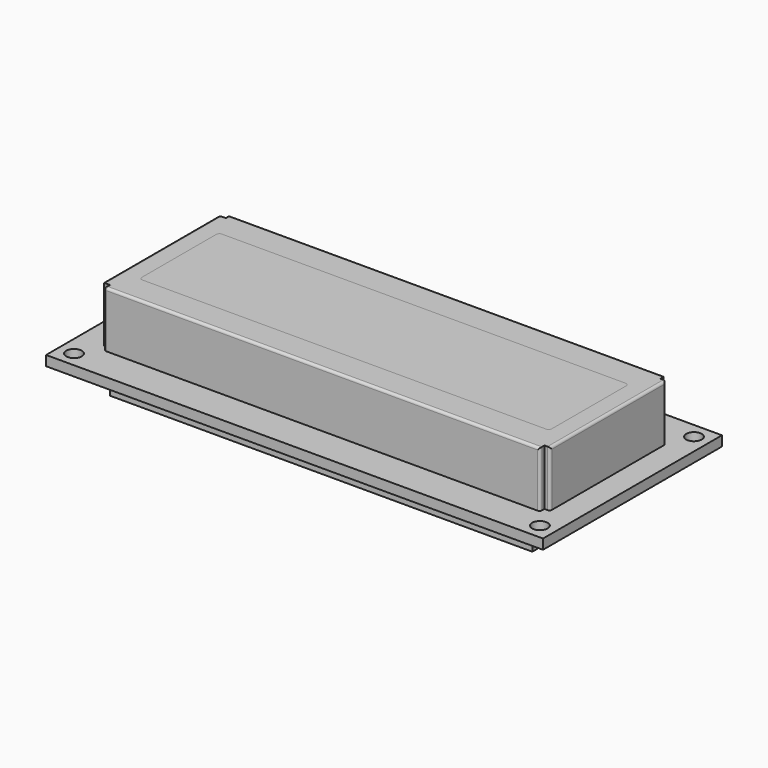
from build123d import *

# Parameters (mm, degrees)
SKETCH_W          = 80
SKETCH_H          = 36
SKETCH_R          = 1.25
SKETCH_R_2        = 0.5
PAD_DEPTH         = 1.6
BOX_W             = 68
BOX_H             = 1
BOX_DEPTH         = 4.4
BOX001_W          = 68
BOX001_H          = 1
BOX001_DEPTH      = 4.4
BOX008_W          = 66
BOX008_H          = 16
BOX008_DEPTH      = 2
FILLET004_R       = 0.5
FILLET005_R       = 0.5
FILLET006_R       = 0.5
FILLET007_R       = 0.5
CYLINDER002_R     = 0.5
CYLINDER002_DEPTH = 0.1
BOX009_W          = 2
BOX009_H          = 2.5
BOX009_DEPTH      = 0.1
CYLINDER001_R     = 0.5
CYLINDER001_DEPTH = 0.1
CYLINDER_R        = 1
CYLINDER_DEPTH    = 0.1
CYLINDER005_R     = 0.5
CYLINDER005_DEPTH = 0.1
BOX010_W          = 2
BOX010_H          = 2.5
BOX010_DEPTH      = 0.1
CYLINDER004_R     = 0.5
CYLINDER004_DEPTH = 0.1
CYLINDER003_R     = 1
CYLINDER003_DEPTH = 0.1
CYLINDER008_R     = 0.5
CYLINDER008_DEPTH = 0.1
BOX011_W          = 2
BOX011_H          = 2.5
BOX011_DEPTH      = 0.1
CYLINDER007_R     = 0.5
CYLINDER007_DEPTH = 0.1
CYLINDER006_R     = 1
CYLINDER006_DEPTH = 0.1
CYLINDER011_R     = 0.5
CYLINDER011_DEPTH = 0.1
BOX012_W          = 2
BOX012_H          = 2.5
BOX012_DEPTH      = 0.1
CYLINDER010_R     = 0.5
CYLINDER010_DEPTH = 0.1
CYLINDER009_R     = 1
CYLINDER009_DEPTH = 0.1
CYLINDER014_R     = 0.5
CYLINDER014_DEPTH = 0.1
BOX013_W          = 2
BOX013_H          = 2.5
BOX013_DEPTH      = 0.1
CYLINDER013_R     = 0.5
CYLINDER013_DEPTH = 0.1
CYLINDER012_R     = 1
CYLINDER012_DEPTH = 0.1
CYLINDER017_R     = 0.5
CYLINDER017_DEPTH = 0.1
BOX014_W          = 2
BOX014_H          = 2.5
BOX014_DEPTH      = 0.1
CYLINDER016_R     = 0.5
CYLINDER016_DEPTH = 0.1
CYLINDER015_R     = 1
CYLINDER015_DEPTH = 0.1
CYLINDER020_R     = 0.5
CYLINDER020_DEPTH = 0.1
BOX015_W          = 2
BOX015_H          = 2.5
BOX015_DEPTH      = 0.1
CYLINDER019_R     = 0.5
CYLINDER019_DEPTH = 0.1
CYLINDER018_R     = 1
CYLINDER018_DEPTH = 0.1
CYLINDER023_R     = 0.5
CYLINDER023_DEPTH = 0.1
BOX016_W          = 2
BOX016_H          = 2.5
BOX016_DEPTH      = 0.1
CYLINDER022_R     = 0.5
CYLINDER022_DEPTH = 0.1
CYLINDER021_R     = 1
CYLINDER021_DEPTH = 0.1
CYLINDER026_R     = 0.5
CYLINDER026_DEPTH = 0.1
BOX017_W          = 2
BOX017_H          = 2.5
BOX017_DEPTH      = 0.1
CYLINDER025_R     = 0.5
CYLINDER025_DEPTH = 0.1
CYLINDER024_R     = 1
CYLINDER024_DEPTH = 0.1
CYLINDER029_R     = 0.5
CYLINDER029_DEPTH = 0.1
BOX018_W          = 2
BOX018_H          = 2.5
BOX018_DEPTH      = 0.1
CYLINDER028_R     = 0.5
CYLINDER028_DEPTH = 0.1
CYLINDER027_R     = 1
CYLINDER027_DEPTH = 0.1
CYLINDER032_R     = 0.5
CYLINDER032_DEPTH = 0.1
BOX019_W          = 2
BOX019_H          = 2.5
BOX019_DEPTH      = 0.1
CYLINDER031_R     = 0.5
CYLINDER031_DEPTH = 0.1
CYLINDER030_R     = 1
CYLINDER030_DEPTH = 0.1
CYLINDER035_R     = 0.5
CYLINDER035_DEPTH = 0.1
BOX020_W          = 2
BOX020_H          = 2.5
BOX020_DEPTH      = 0.1
CYLINDER034_R     = 0.5
CYLINDER034_DEPTH = 0.1
CYLINDER033_R     = 1
CYLINDER033_DEPTH = 0.1
CYLINDER038_R     = 0.5
CYLINDER038_DEPTH = 0.1
BOX021_W          = 2
BOX021_H          = 2.5
BOX021_DEPTH      = 0.1
CYLINDER037_R     = 0.5
CYLINDER037_DEPTH = 0.1
CYLINDER036_R     = 1
CYLINDER036_DEPTH = 0.1
CYLINDER041_R     = 0.5
CYLINDER041_DEPTH = 0.1
BOX022_W          = 2
BOX022_H          = 2.5
BOX022_DEPTH      = 0.1
CYLINDER040_R     = 0.5
CYLINDER040_DEPTH = 0.1
CYLINDER039_R     = 1
CYLINDER039_DEPTH = 0.1
CYLINDER044_R     = 0.5
CYLINDER044_DEPTH = 0.1
BOX023_W          = 2
BOX023_H          = 2.5
BOX023_DEPTH      = 0.1
CYLINDER043_R     = 0.5
CYLINDER043_DEPTH = 0.1
CYLINDER042_R     = 1
CYLINDER042_DEPTH = 0.1
CYLINDER047_R     = 0.5
CYLINDER047_DEPTH = 0.1
BOX024_W          = 2
BOX024_H          = 2.5
BOX024_DEPTH      = 0.1
CYLINDER046_R     = 0.5
CYLINDER046_DEPTH = 0.1
CYLINDER045_R     = 1
CYLINDER045_DEPTH = 0.1
BOX007_W          = 66
BOX007_H          = 16
BOX007_DEPTH      = 2
FILLET_R          = 0.5
FILLET001_R       = 0.5
FILLET002_R       = 0.5
FILLET003_R       = 0.5
BOX006_W          = 1
BOX006_H          = 1
BOX006_DEPTH      = 9
BOX005_W          = 1
BOX005_H          = 1
BOX005_DEPTH      = 9
BOX004_W          = 1
BOX004_H          = 1
BOX004_DEPTH      = 9
BOX003_W          = 1
BOX003_H          = 1
BOX003_DEPTH      = 9
BOX002_W          = 72
BOX002_H          = 25.13
BOX002_DEPTH      = 9
FILLET008_R       = 0.4
FILLET009_R       = 0.4


with BuildPart() as body:
    # Sketch → Pad (new body)
    with BuildSketch(Plane.XY):
        with Locations((32, -15.5)):
            Rectangle(SKETCH_W, SKETCH_H)
        with Locations((-5.5, 0)):
            Circle(SKETCH_R, mode=Mode.SUBTRACT)
        with Locations((-5.5, -31)):
            Circle(SKETCH_R, mode=Mode.SUBTRACT)
        with Locations((69.5, -31)):
            Circle(SKETCH_R, mode=Mode.SUBTRACT)
        with Locations((69.5, 0)):
            Circle(SKETCH_R, mode=Mode.SUBTRACT)
        with Locations((2.54, 0)):
            Circle(SKETCH_R_2, mode=Mode.SUBTRACT)
        Circle(SKETCH_R_2, mode=Mode.SUBTRACT)
        with Locations((10.16, 0)):
            Circle(SKETCH_R_2, mode=Mode.SUBTRACT)
        with Locations((15.24, 0)):
            Circle(SKETCH_R_2, mode=Mode.SUBTRACT)
        with Locations((25.4, 0)):
            Circle(SKETCH_R_2, mode=Mode.SUBTRACT)
        with Locations((22.86, 0)):
            Circle(SKETCH_R_2, mode=Mode.SUBTRACT)
        with Locations((38.1, 0)):
            Circle(SKETCH_R_2, mode=Mode.SUBTRACT)
        with Locations((27.94, 0)):
            Circle(SKETCH_R_2, mode=Mode.SUBTRACT)
        with Locations((20.32, 0)):
            Circle(SKETCH_R_2, mode=Mode.SUBTRACT)
        with Locations((35.56, 0)):
            Circle(SKETCH_R_2, mode=Mode.SUBTRACT)
        with Locations((12.7, 0)):
            Circle(SKETCH_R_2, mode=Mode.SUBTRACT)
        with Locations((7.62, 0)):
            Circle(SKETCH_R_2, mode=Mode.SUBTRACT)
        with Locations((5.08, 0)):
            Circle(SKETCH_R_2, mode=Mode.SUBTRACT)
        with Locations((17.78, 0)):
            Circle(SKETCH_R_2, mode=Mode.SUBTRACT)
        with Locations((30.48, 0)):
            Circle(SKETCH_R_2, mode=Mode.SUBTRACT)
        with Locations((33.02, 0)):
            Circle(SKETCH_R_2, mode=Mode.SUBTRACT)
    extrude(amount=PAD_DEPTH)


with BuildPart() as body_1:
    # Body placement: moved
    add(body.part.moved(Location((0, 0, 4.4))))


with BuildPart() as glide001:
    # Box → Box (new body)
    with BuildSketch(Plane(origin=(-2.85, -4, 0), x_dir=(1, 0, 0), z_dir=(0, 0, 1))):
        with Locations((34, 0.5)):
            Rectangle(BOX_W, BOX_H)
    extrude(amount=BOX_DEPTH)


with BuildPart() as glide002:
    # Box001 → Box001 (new body)
    with BuildSketch(Plane(origin=(-2, -28.15, 0), x_dir=(1, 0, 0), z_dir=(0, 0, 1))):
        with Locations((34, 0.5)):
            Rectangle(BOX001_W, BOX001_H)
    extrude(amount=BOX001_DEPTH)


with BuildPart() as active_lcd_area:
    # Box008 → Box008 (new body)
    with BuildSketch(Plane(origin=(-1, -23.5, 20), x_dir=(1, 0, 0), z_dir=(0, 0, 1))):
        with Locations((33, 8)):
            Rectangle(BOX008_W, BOX008_H)
    extrude(amount=BOX008_DEPTH)

    # Fillet004
    fillet004_edges = [active_lcd_area.edges().sort_by_distance(p)[0] for p in [
        (65, -23.5, 21),
    ]]
    fillet(fillet004_edges, radius=FILLET004_R)

    # Fillet005
    fillet005_edges = [active_lcd_area.edges().sort_by_distance(p)[0] for p in [
        (65, -7.5, 21),
    ]]
    fillet(fillet005_edges, radius=FILLET005_R)

    # Fillet006
    fillet006_edges = [active_lcd_area.edges().sort_by_distance(p)[0] for p in [
        (-1, -23.5, 21),
    ]]
    fillet(fillet006_edges, radius=FILLET006_R)

    # Fillet007
    fillet007_edges = [active_lcd_area.edges().sort_by_distance(p)[0] for p in [
        (-1, -7.5, 21),
    ]]
    fillet(fillet007_edges, radius=FILLET007_R)


with BuildPart() as active_lcd_area_1:
    # Fillet007 placement: moved
    add(active_lcd_area.part.moved(Location((0, 0, -7))))


with BuildPart() as cylinder002:
    # Cylinder002 → Cylinder002 (new body)
    with BuildSketch(Plane.XY.offset(6)):
        Circle(CYLINDER002_R)
    extrude(amount=CYLINDER002_DEPTH)


with BuildPart() as cut006:
    # Box009 → Box009 (new body)
    with BuildSketch(Plane(origin=(-1, 0, 6), x_dir=(1, 0, 0), z_dir=(0, 0, 1))):
        with Locations((1, 1.25)):
            Rectangle(BOX009_W, BOX009_H)
    extrude(amount=BOX009_DEPTH)

    # Cut006: cut Cylinder002
    add(cylinder002.part, mode=Mode.SUBTRACT)


with BuildPart() as cylinder001:
    # Cylinder001 → Cylinder001 (new body)
    with BuildSketch(Plane.XY.offset(6)):
        Circle(CYLINDER001_R)
    extrude(amount=CYLINDER001_DEPTH)


with BuildPart() as fusion:
    # Cylinder → Cylinder (new body)
    with BuildSketch(Plane.XY.offset(6)):
        Circle(CYLINDER_R)
    extrude(amount=CYLINDER_DEPTH)

    # Cut005: cut Cylinder001
    add(cylinder001.part, mode=Mode.SUBTRACT)

    # Fusion: union Cut006
    add(cut006.part)


with BuildPart() as cylinder005:
    # Cylinder005 → Cylinder005 (new body)
    with BuildSketch(Plane.XY.offset(6)):
        Circle(CYLINDER005_R)
    extrude(amount=CYLINDER005_DEPTH)


with BuildPart() as cut008:
    # Box010 → Box010 (new body)
    with BuildSketch(Plane(origin=(-1, 0, 6), x_dir=(1, 0, 0), z_dir=(0, 0, 1))):
        with Locations((1, 1.25)):
            Rectangle(BOX010_W, BOX010_H)
    extrude(amount=BOX010_DEPTH)

    # Cut008: cut Cylinder005
    add(cylinder005.part, mode=Mode.SUBTRACT)


with BuildPart() as cylinder004:
    # Cylinder004 → Cylinder004 (new body)
    with BuildSketch(Plane.XY.offset(6)):
        Circle(CYLINDER004_R)
    extrude(amount=CYLINDER004_DEPTH)


with BuildPart() as fusion001:
    # Cylinder003 → Cylinder003 (new body)
    with BuildSketch(Plane.XY.offset(6)):
        Circle(CYLINDER003_R)
    extrude(amount=CYLINDER003_DEPTH)

    # Cut007: cut Cylinder004
    add(cylinder004.part, mode=Mode.SUBTRACT)

    # Fusion001: union Cut008
    add(cut008.part)


with BuildPart() as fusion001_1:
    # Fusion001 placement: moved
    add(fusion001.part.moved(Location((2.54, 0, 0))))


with BuildPart() as cylinder008:
    # Cylinder008 → Cylinder008 (new body)
    with BuildSketch(Plane.XY.offset(6)):
        Circle(CYLINDER008_R)
    extrude(amount=CYLINDER008_DEPTH)


with BuildPart() as cut010:
    # Box011 → Box011 (new body)
    with BuildSketch(Plane(origin=(-1, 0, 6), x_dir=(1, 0, 0), z_dir=(0, 0, 1))):
        with Locations((1, 1.25)):
            Rectangle(BOX011_W, BOX011_H)
    extrude(amount=BOX011_DEPTH)

    # Cut010: cut Cylinder008
    add(cylinder008.part, mode=Mode.SUBTRACT)


with BuildPart() as cylinder007:
    # Cylinder007 → Cylinder007 (new body)
    with BuildSketch(Plane.XY.offset(6)):
        Circle(CYLINDER007_R)
    extrude(amount=CYLINDER007_DEPTH)


with BuildPart() as fusion002:
    # Cylinder006 → Cylinder006 (new body)
    with BuildSketch(Plane.XY.offset(6)):
        Circle(CYLINDER006_R)
    extrude(amount=CYLINDER006_DEPTH)

    # Cut009: cut Cylinder007
    add(cylinder007.part, mode=Mode.SUBTRACT)

    # Fusion002: union Cut010
    add(cut010.part)


with BuildPart() as fusion002_1:
    # Fusion002 placement: moved
    add(fusion002.part.moved(Location((5.08, 0, 0))))


with BuildPart() as cylinder011:
    # Cylinder011 → Cylinder011 (new body)
    with BuildSketch(Plane.XY.offset(6)):
        Circle(CYLINDER011_R)
    extrude(amount=CYLINDER011_DEPTH)


with BuildPart() as cut012:
    # Box012 → Box012 (new body)
    with BuildSketch(Plane(origin=(-1, 0, 6), x_dir=(1, 0, 0), z_dir=(0, 0, 1))):
        with Locations((1, 1.25)):
            Rectangle(BOX012_W, BOX012_H)
    extrude(amount=BOX012_DEPTH)

    # Cut012: cut Cylinder011
    add(cylinder011.part, mode=Mode.SUBTRACT)


with BuildPart() as cylinder010:
    # Cylinder010 → Cylinder010 (new body)
    with BuildSketch(Plane.XY.offset(6)):
        Circle(CYLINDER010_R)
    extrude(amount=CYLINDER010_DEPTH)


with BuildPart() as fusion003:
    # Cylinder009 → Cylinder009 (new body)
    with BuildSketch(Plane.XY.offset(6)):
        Circle(CYLINDER009_R)
    extrude(amount=CYLINDER009_DEPTH)

    # Cut011: cut Cylinder010
    add(cylinder010.part, mode=Mode.SUBTRACT)

    # Fusion003: union Cut012
    add(cut012.part)


with BuildPart() as fusion003_1:
    # Fusion003 placement: moved
    add(fusion003.part.moved(Location((7.62, 0, 0))))


with BuildPart() as cylinder014:
    # Cylinder014 → Cylinder014 (new body)
    with BuildSketch(Plane.XY.offset(6)):
        Circle(CYLINDER014_R)
    extrude(amount=CYLINDER014_DEPTH)


with BuildPart() as cut014:
    # Box013 → Box013 (new body)
    with BuildSketch(Plane(origin=(-1, 0, 6), x_dir=(1, 0, 0), z_dir=(0, 0, 1))):
        with Locations((1, 1.25)):
            Rectangle(BOX013_W, BOX013_H)
    extrude(amount=BOX013_DEPTH)

    # Cut014: cut Cylinder014
    add(cylinder014.part, mode=Mode.SUBTRACT)


with BuildPart() as cylinder013:
    # Cylinder013 → Cylinder013 (new body)
    with BuildSketch(Plane.XY.offset(6)):
        Circle(CYLINDER013_R)
    extrude(amount=CYLINDER013_DEPTH)


with BuildPart() as fusion004:
    # Cylinder012 → Cylinder012 (new body)
    with BuildSketch(Plane.XY.offset(6)):
        Circle(CYLINDER012_R)
    extrude(amount=CYLINDER012_DEPTH)

    # Cut013: cut Cylinder013
    add(cylinder013.part, mode=Mode.SUBTRACT)

    # Fusion004: union Cut014
    add(cut014.part)


with BuildPart() as fusion004_1:
    # Fusion004 placement: moved
    add(fusion004.part.moved(Location((10.16, 0, 0))))


with BuildPart() as cylinder017:
    # Cylinder017 → Cylinder017 (new body)
    with BuildSketch(Plane.XY.offset(6)):
        Circle(CYLINDER017_R)
    extrude(amount=CYLINDER017_DEPTH)


with BuildPart() as cut016:
    # Box014 → Box014 (new body)
    with BuildSketch(Plane(origin=(-1, 0, 6), x_dir=(1, 0, 0), z_dir=(0, 0, 1))):
        with Locations((1, 1.25)):
            Rectangle(BOX014_W, BOX014_H)
    extrude(amount=BOX014_DEPTH)

    # Cut016: cut Cylinder017
    add(cylinder017.part, mode=Mode.SUBTRACT)


with BuildPart() as cylinder016:
    # Cylinder016 → Cylinder016 (new body)
    with BuildSketch(Plane.XY.offset(6)):
        Circle(CYLINDER016_R)
    extrude(amount=CYLINDER016_DEPTH)


with BuildPart() as fusion005:
    # Cylinder015 → Cylinder015 (new body)
    with BuildSketch(Plane.XY.offset(6)):
        Circle(CYLINDER015_R)
    extrude(amount=CYLINDER015_DEPTH)

    # Cut015: cut Cylinder016
    add(cylinder016.part, mode=Mode.SUBTRACT)

    # Fusion005: union Cut016
    add(cut016.part)


with BuildPart() as fusion005_1:
    # Fusion005 placement: moved
    add(fusion005.part.moved(Location((12.7, 0, 0))))


with BuildPart() as cylinder020:
    # Cylinder020 → Cylinder020 (new body)
    with BuildSketch(Plane.XY.offset(6)):
        Circle(CYLINDER020_R)
    extrude(amount=CYLINDER020_DEPTH)


with BuildPart() as cut018:
    # Box015 → Box015 (new body)
    with BuildSketch(Plane(origin=(-1, 0, 6), x_dir=(1, 0, 0), z_dir=(0, 0, 1))):
        with Locations((1, 1.25)):
            Rectangle(BOX015_W, BOX015_H)
    extrude(amount=BOX015_DEPTH)

    # Cut018: cut Cylinder020
    add(cylinder020.part, mode=Mode.SUBTRACT)


with BuildPart() as cylinder019:
    # Cylinder019 → Cylinder019 (new body)
    with BuildSketch(Plane.XY.offset(6)):
        Circle(CYLINDER019_R)
    extrude(amount=CYLINDER019_DEPTH)


with BuildPart() as fusion006:
    # Cylinder018 → Cylinder018 (new body)
    with BuildSketch(Plane.XY.offset(6)):
        Circle(CYLINDER018_R)
    extrude(amount=CYLINDER018_DEPTH)

    # Cut017: cut Cylinder019
    add(cylinder019.part, mode=Mode.SUBTRACT)

    # Fusion006: union Cut018
    add(cut018.part)


with BuildPart() as fusion006_1:
    # Fusion006 placement: moved
    add(fusion006.part.moved(Location((15.24, 0, 0))))


with BuildPart() as cylinder023:
    # Cylinder023 → Cylinder023 (new body)
    with BuildSketch(Plane.XY.offset(6)):
        Circle(CYLINDER023_R)
    extrude(amount=CYLINDER023_DEPTH)


with BuildPart() as cut020:
    # Box016 → Box016 (new body)
    with BuildSketch(Plane(origin=(-1, 0, 6), x_dir=(1, 0, 0), z_dir=(0, 0, 1))):
        with Locations((1, 1.25)):
            Rectangle(BOX016_W, BOX016_H)
    extrude(amount=BOX016_DEPTH)

    # Cut020: cut Cylinder023
    add(cylinder023.part, mode=Mode.SUBTRACT)


with BuildPart() as cylinder022:
    # Cylinder022 → Cylinder022 (new body)
    with BuildSketch(Plane.XY.offset(6)):
        Circle(CYLINDER022_R)
    extrude(amount=CYLINDER022_DEPTH)


with BuildPart() as fusion007:
    # Cylinder021 → Cylinder021 (new body)
    with BuildSketch(Plane.XY.offset(6)):
        Circle(CYLINDER021_R)
    extrude(amount=CYLINDER021_DEPTH)

    # Cut019: cut Cylinder022
    add(cylinder022.part, mode=Mode.SUBTRACT)

    # Fusion007: union Cut020
    add(cut020.part)


with BuildPart() as fusion007_1:
    # Fusion007 placement: moved
    add(fusion007.part.moved(Location((17.78, 0, 0))))


with BuildPart() as cylinder026:
    # Cylinder026 → Cylinder026 (new body)
    with BuildSketch(Plane.XY.offset(6)):
        Circle(CYLINDER026_R)
    extrude(amount=CYLINDER026_DEPTH)


with BuildPart() as cut022:
    # Box017 → Box017 (new body)
    with BuildSketch(Plane(origin=(-1, 0, 6), x_dir=(1, 0, 0), z_dir=(0, 0, 1))):
        with Locations((1, 1.25)):
            Rectangle(BOX017_W, BOX017_H)
    extrude(amount=BOX017_DEPTH)

    # Cut022: cut Cylinder026
    add(cylinder026.part, mode=Mode.SUBTRACT)


with BuildPart() as cylinder025:
    # Cylinder025 → Cylinder025 (new body)
    with BuildSketch(Plane.XY.offset(6)):
        Circle(CYLINDER025_R)
    extrude(amount=CYLINDER025_DEPTH)


with BuildPart() as fusion008:
    # Cylinder024 → Cylinder024 (new body)
    with BuildSketch(Plane.XY.offset(6)):
        Circle(CYLINDER024_R)
    extrude(amount=CYLINDER024_DEPTH)

    # Cut021: cut Cylinder025
    add(cylinder025.part, mode=Mode.SUBTRACT)

    # Fusion008: union Cut022
    add(cut022.part)


with BuildPart() as fusion008_1:
    # Fusion008 placement: moved
    add(fusion008.part.moved(Location((20.32, 0, 0))))


with BuildPart() as cylinder029:
    # Cylinder029 → Cylinder029 (new body)
    with BuildSketch(Plane.XY.offset(6)):
        Circle(CYLINDER029_R)
    extrude(amount=CYLINDER029_DEPTH)


with BuildPart() as cut024:
    # Box018 → Box018 (new body)
    with BuildSketch(Plane(origin=(-1, 0, 6), x_dir=(1, 0, 0), z_dir=(0, 0, 1))):
        with Locations((1, 1.25)):
            Rectangle(BOX018_W, BOX018_H)
    extrude(amount=BOX018_DEPTH)

    # Cut024: cut Cylinder029
    add(cylinder029.part, mode=Mode.SUBTRACT)


with BuildPart() as cylinder028:
    # Cylinder028 → Cylinder028 (new body)
    with BuildSketch(Plane.XY.offset(6)):
        Circle(CYLINDER028_R)
    extrude(amount=CYLINDER028_DEPTH)


with BuildPart() as fusion009:
    # Cylinder027 → Cylinder027 (new body)
    with BuildSketch(Plane.XY.offset(6)):
        Circle(CYLINDER027_R)
    extrude(amount=CYLINDER027_DEPTH)

    # Cut023: cut Cylinder028
    add(cylinder028.part, mode=Mode.SUBTRACT)

    # Fusion009: union Cut024
    add(cut024.part)


with BuildPart() as fusion009_1:
    # Fusion009 placement: moved
    add(fusion009.part.moved(Location((22.86, 0, 0))))


with BuildPart() as cylinder032:
    # Cylinder032 → Cylinder032 (new body)
    with BuildSketch(Plane.XY.offset(6)):
        Circle(CYLINDER032_R)
    extrude(amount=CYLINDER032_DEPTH)


with BuildPart() as cut026:
    # Box019 → Box019 (new body)
    with BuildSketch(Plane(origin=(-1, 0, 6), x_dir=(1, 0, 0), z_dir=(0, 0, 1))):
        with Locations((1, 1.25)):
            Rectangle(BOX019_W, BOX019_H)
    extrude(amount=BOX019_DEPTH)

    # Cut026: cut Cylinder032
    add(cylinder032.part, mode=Mode.SUBTRACT)


with BuildPart() as cylinder031:
    # Cylinder031 → Cylinder031 (new body)
    with BuildSketch(Plane.XY.offset(6)):
        Circle(CYLINDER031_R)
    extrude(amount=CYLINDER031_DEPTH)


with BuildPart() as fusion010:
    # Cylinder030 → Cylinder030 (new body)
    with BuildSketch(Plane.XY.offset(6)):
        Circle(CYLINDER030_R)
    extrude(amount=CYLINDER030_DEPTH)

    # Cut025: cut Cylinder031
    add(cylinder031.part, mode=Mode.SUBTRACT)

    # Fusion010: union Cut026
    add(cut026.part)


with BuildPart() as fusion010_1:
    # Fusion010 placement: moved
    add(fusion010.part.moved(Location((25.4, 0, 0))))


with BuildPart() as cylinder035:
    # Cylinder035 → Cylinder035 (new body)
    with BuildSketch(Plane.XY.offset(6)):
        Circle(CYLINDER035_R)
    extrude(amount=CYLINDER035_DEPTH)


with BuildPart() as cut028:
    # Box020 → Box020 (new body)
    with BuildSketch(Plane(origin=(-1, 0, 6), x_dir=(1, 0, 0), z_dir=(0, 0, 1))):
        with Locations((1, 1.25)):
            Rectangle(BOX020_W, BOX020_H)
    extrude(amount=BOX020_DEPTH)

    # Cut028: cut Cylinder035
    add(cylinder035.part, mode=Mode.SUBTRACT)


with BuildPart() as cylinder034:
    # Cylinder034 → Cylinder034 (new body)
    with BuildSketch(Plane.XY.offset(6)):
        Circle(CYLINDER034_R)
    extrude(amount=CYLINDER034_DEPTH)


with BuildPart() as fusion011:
    # Cylinder033 → Cylinder033 (new body)
    with BuildSketch(Plane.XY.offset(6)):
        Circle(CYLINDER033_R)
    extrude(amount=CYLINDER033_DEPTH)

    # Cut027: cut Cylinder034
    add(cylinder034.part, mode=Mode.SUBTRACT)

    # Fusion011: union Cut028
    add(cut028.part)


with BuildPart() as fusion011_1:
    # Fusion011 placement: moved
    add(fusion011.part.moved(Location((27.94, 0, 0))))


with BuildPart() as cylinder038:
    # Cylinder038 → Cylinder038 (new body)
    with BuildSketch(Plane.XY.offset(6)):
        Circle(CYLINDER038_R)
    extrude(amount=CYLINDER038_DEPTH)


with BuildPart() as cut030:
    # Box021 → Box021 (new body)
    with BuildSketch(Plane(origin=(-1, 0, 6), x_dir=(1, 0, 0), z_dir=(0, 0, 1))):
        with Locations((1, 1.25)):
            Rectangle(BOX021_W, BOX021_H)
    extrude(amount=BOX021_DEPTH)

    # Cut030: cut Cylinder038
    add(cylinder038.part, mode=Mode.SUBTRACT)


with BuildPart() as cylinder037:
    # Cylinder037 → Cylinder037 (new body)
    with BuildSketch(Plane.XY.offset(6)):
        Circle(CYLINDER037_R)
    extrude(amount=CYLINDER037_DEPTH)


with BuildPart() as fusion012:
    # Cylinder036 → Cylinder036 (new body)
    with BuildSketch(Plane.XY.offset(6)):
        Circle(CYLINDER036_R)
    extrude(amount=CYLINDER036_DEPTH)

    # Cut029: cut Cylinder037
    add(cylinder037.part, mode=Mode.SUBTRACT)

    # Fusion012: union Cut030
    add(cut030.part)


with BuildPart() as fusion012_1:
    # Fusion012 placement: moved
    add(fusion012.part.moved(Location((30.48, 0, 0))))


with BuildPart() as cylinder041:
    # Cylinder041 → Cylinder041 (new body)
    with BuildSketch(Plane.XY.offset(6)):
        Circle(CYLINDER041_R)
    extrude(amount=CYLINDER041_DEPTH)


with BuildPart() as cut032:
    # Box022 → Box022 (new body)
    with BuildSketch(Plane(origin=(-1, 0, 6), x_dir=(1, 0, 0), z_dir=(0, 0, 1))):
        with Locations((1, 1.25)):
            Rectangle(BOX022_W, BOX022_H)
    extrude(amount=BOX022_DEPTH)

    # Cut032: cut Cylinder041
    add(cylinder041.part, mode=Mode.SUBTRACT)


with BuildPart() as cylinder040:
    # Cylinder040 → Cylinder040 (new body)
    with BuildSketch(Plane.XY.offset(6)):
        Circle(CYLINDER040_R)
    extrude(amount=CYLINDER040_DEPTH)


with BuildPart() as fusion013:
    # Cylinder039 → Cylinder039 (new body)
    with BuildSketch(Plane.XY.offset(6)):
        Circle(CYLINDER039_R)
    extrude(amount=CYLINDER039_DEPTH)

    # Cut031: cut Cylinder040
    add(cylinder040.part, mode=Mode.SUBTRACT)

    # Fusion013: union Cut032
    add(cut032.part)


with BuildPart() as fusion013_1:
    # Fusion013 placement: moved
    add(fusion013.part.moved(Location((33.02, 0, 0))))


with BuildPart() as cylinder044:
    # Cylinder044 → Cylinder044 (new body)
    with BuildSketch(Plane.XY.offset(6)):
        Circle(CYLINDER044_R)
    extrude(amount=CYLINDER044_DEPTH)


with BuildPart() as cut034:
    # Box023 → Box023 (new body)
    with BuildSketch(Plane(origin=(-1, 0, 6), x_dir=(1, 0, 0), z_dir=(0, 0, 1))):
        with Locations((1, 1.25)):
            Rectangle(BOX023_W, BOX023_H)
    extrude(amount=BOX023_DEPTH)

    # Cut034: cut Cylinder044
    add(cylinder044.part, mode=Mode.SUBTRACT)


with BuildPart() as cylinder043:
    # Cylinder043 → Cylinder043 (new body)
    with BuildSketch(Plane.XY.offset(6)):
        Circle(CYLINDER043_R)
    extrude(amount=CYLINDER043_DEPTH)


with BuildPart() as fusion014:
    # Cylinder042 → Cylinder042 (new body)
    with BuildSketch(Plane.XY.offset(6)):
        Circle(CYLINDER042_R)
    extrude(amount=CYLINDER042_DEPTH)

    # Cut033: cut Cylinder043
    add(cylinder043.part, mode=Mode.SUBTRACT)

    # Fusion014: union Cut034
    add(cut034.part)


with BuildPart() as fusion014_1:
    # Fusion014 placement: moved
    add(fusion014.part.moved(Location((35.56, 0, 0))))


with BuildPart() as cylinder047:
    # Cylinder047 → Cylinder047 (new body)
    with BuildSketch(Plane.XY.offset(6)):
        Circle(CYLINDER047_R)
    extrude(amount=CYLINDER047_DEPTH)


with BuildPart() as cut036:
    # Box024 → Box024 (new body)
    with BuildSketch(Plane(origin=(-1, 0, 6), x_dir=(1, 0, 0), z_dir=(0, 0, 1))):
        with Locations((1, 1.25)):
            Rectangle(BOX024_W, BOX024_H)
    extrude(amount=BOX024_DEPTH)

    # Cut036: cut Cylinder047
    add(cylinder047.part, mode=Mode.SUBTRACT)


with BuildPart() as cylinder046:
    # Cylinder046 → Cylinder046 (new body)
    with BuildSketch(Plane.XY.offset(6)):
        Circle(CYLINDER046_R)
    extrude(amount=CYLINDER046_DEPTH)


with BuildPart() as fusion015:
    # Cylinder045 → Cylinder045 (new body)
    with BuildSketch(Plane.XY.offset(6)):
        Circle(CYLINDER045_R)
    extrude(amount=CYLINDER045_DEPTH)

    # Cut035: cut Cylinder046
    add(cylinder046.part, mode=Mode.SUBTRACT)

    # Fusion015: union Cut036
    add(cut036.part)


with BuildPart() as fusion015_1:
    # Fusion015 placement: moved
    add(fusion015.part.moved(Location((38.1, 0, 0))))


with BuildPart() as cutout_for_lcd_active_area:
    # Box007 → Box007 (new body)
    with BuildSketch(Plane(origin=(-1, -23.5, 20), x_dir=(1, 0, 0), z_dir=(0, 0, 1))):
        with Locations((33, 8)):
            Rectangle(BOX007_W, BOX007_H)
    extrude(amount=BOX007_DEPTH)

    # Fillet
    fillet_edges = [cutout_for_lcd_active_area.edges().sort_by_distance(p)[0] for p in [
        (65, -23.5, 21),
    ]]
    fillet(fillet_edges, radius=FILLET_R)

    # Fillet001
    fillet001_edges = [cutout_for_lcd_active_area.edges().sort_by_distance(p)[0] for p in [
        (65, -7.5, 21),
    ]]
    fillet(fillet001_edges, radius=FILLET001_R)

    # Fillet002
    fillet002_edges = [cutout_for_lcd_active_area.edges().sort_by_distance(p)[0] for p in [
        (-1, -23.5, 21),
    ]]
    fillet(fillet002_edges, radius=FILLET002_R)

    # Fillet003
    fillet003_edges = [cutout_for_lcd_active_area.edges().sort_by_distance(p)[0] for p in [
        (-1, -7.5, 21),
    ]]
    fillet(fillet003_edges, radius=FILLET003_R)


with BuildPart() as cutout_for_lcd_active_area_1:
    # Fillet003 placement: moved
    add(cutout_for_lcd_active_area.part.moved(Location((0, 0, -7))))


with BuildPart() as box006:
    # Box006 → Box006 (new body)
    with BuildSketch(Plane(origin=(67.1, -28.1, 6), x_dir=(1, 0, 0), z_dir=(0, 0, 1))):
        with Locations((0.5, 0.5)):
            Rectangle(BOX006_W, BOX006_H)
    extrude(amount=BOX006_DEPTH)


with BuildPart() as box005:
    # Box005 → Box005 (new body)
    with BuildSketch(Plane(origin=(67.1, -3.8, 6), x_dir=(1, 0, 0), z_dir=(0, 0, 1))):
        with Locations((0.5, 0.5)):
            Rectangle(BOX005_W, BOX005_H)
    extrude(amount=BOX005_DEPTH)


with BuildPart() as box004:
    # Box004 → Box004 (new body)
    with BuildSketch(Plane(origin=(-4.1, -28.1, 6), x_dir=(1, 0, 0), z_dir=(0, 0, 1))):
        with Locations((0.5, 0.5)):
            Rectangle(BOX004_W, BOX004_H)
    extrude(amount=BOX004_DEPTH)


with BuildPart() as box003:
    # Box003 → Box003 (new body)
    with BuildSketch(Plane(origin=(-4.1, -3.8, 6), x_dir=(1, 0, 0), z_dir=(0, 0, 1))):
        with Locations((0.5, 0.5)):
            Rectangle(BOX003_W, BOX003_H)
    extrude(amount=BOX003_DEPTH)


with BuildPart() as fillet009:
    # Box002 → Box002 (new body)
    with BuildSketch(Plane(origin=(-4, -28, 6), x_dir=(1, 0, 0), z_dir=(0, 0, 1))):
        with Locations((36, 12.565)):
            Rectangle(BOX002_W, BOX002_H)
    extrude(amount=BOX002_DEPTH)

    # Cut: cut Box003
    add(box003.part, mode=Mode.SUBTRACT)

    # Cut001: cut Box004
    add(box004.part, mode=Mode.SUBTRACT)

    # Cut002: cut Box005
    add(box005.part, mode=Mode.SUBTRACT)

    # Cut003: cut Box006
    add(box006.part, mode=Mode.SUBTRACT)

    # Cut004: cut Cutout for LCD active area
    add(cutout_for_lcd_active_area_1.part, mode=Mode.SUBTRACT)

    # Fillet008
    fillet008_edges = [fillet009.edges().sort_by_distance(p)[0] for p in [
        (32, -28, 15),
        (32, -2.87, 15),
        (68, -15.45, 15),
        (67.1, -28, 10.5),
        (67.1, -2.87, 10.5),
        (68, -27.1, 10.5),
        (68, -3.8, 10.5),
    ]]
    fillet(fillet008_edges, radius=FILLET008_R)

    # Fillet009
    fillet009_edges = [fillet009.edges().sort_by_distance(p)[0] for p in [
        (-4, -15.45, 15),
        (-3.1, -28, 10.3),
        (-4, -27.1, 10.5),
        (-4, -3.8, 10.5),
        (-3.1, -2.87, 10.3),
    ]]
    fillet(fillet009_edges, radius=FILLET009_R)


solid = Compound([body_1.part, glide001.part, glide002.part, active_lcd_area_1.part, fusion.part, fusion001_1.part, fusion002_1.part, fusion003_1.part, fusion004_1.part, fusion005_1.part, fusion006_1.part, fusion007_1.part, fusion008_1.part, fusion009_1.part, fusion010_1.part, fusion011_1.part, fusion012_1.part, fusion013_1.part, fusion014_1.part, fusion015_1.part, fillet009.part])
